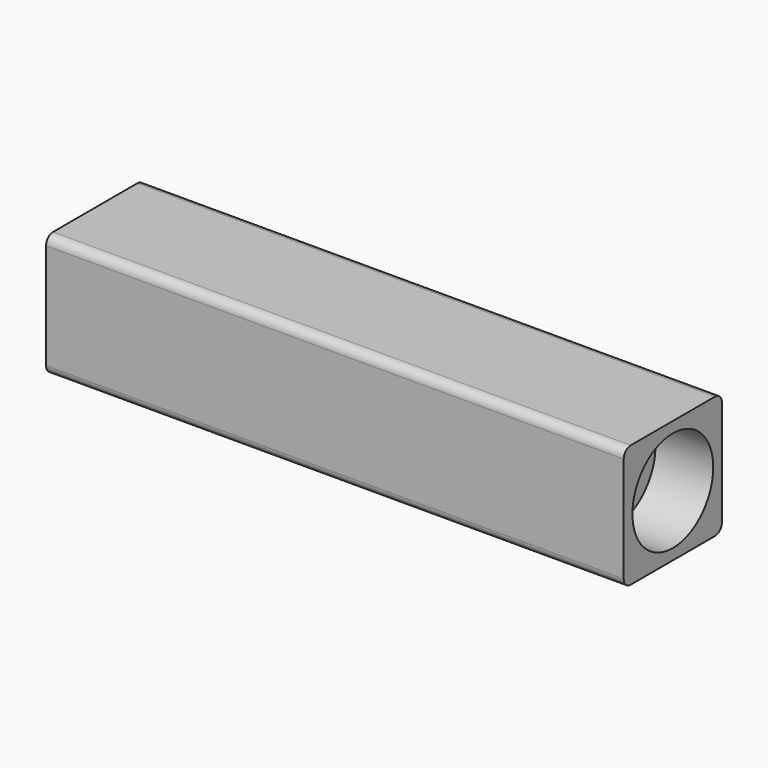
from build123d import *

# Parameters (mm, degrees)
F0_W     = 40
F0_H     = 8.5
F1_DEPTH = 8.5
F2_R     = 1.75
F3_DEPTH = 40
F2_R_2   = 3.5
F4_DEPTH = 4
F5_R     = 3.5
F6_DEPTH = 4
F7_R     = 0.6


with BuildPart() as f1:
    # F0 (on Top) → F1 (new body)
    with BuildSketch(Plane.XY):
        Rectangle(F0_W, F0_H)
    extrude(amount=F1_DEPTH)

    # F2 (on face) → F3 (cut)
    with BuildSketch(Plane.YZ.offset(20)):
        with Locations((0, 4.25)):
            Circle(F2_R)
    extrude(amount=-F3_DEPTH, mode=Mode.SUBTRACT)

    # F2 (on face) → F4 (cut)
    with BuildSketch(Plane.YZ.offset(20)):
        with Locations((0, 4.25)):
            Circle(F2_R_2)
        with Locations((0, 4.25)):
            Circle(F2_R, mode=Mode.SUBTRACT)
    extrude(amount=-F4_DEPTH, mode=Mode.SUBTRACT)

    # F5 (on face) → F6 (cut)
    with BuildSketch(Plane(origin=(-20, 0, 0), x_dir=(0, -1, 0), z_dir=(-1, 0, 0))):
        with Locations((0, 4.25)):
            Circle(F5_R)
    extrude(amount=-F6_DEPTH, mode=Mode.SUBTRACT)

    # F7
    f7_edges = [f1.edges().sort_by_distance(p)[0] for p in [
        (0, 4.25, 8.5),
        (0, 4.25, 0),
        (0, -4.25, 8.5),
        (0, -4.25, 0),
    ]]
    fillet(f7_edges, radius=F7_R)


solid = f1.part
